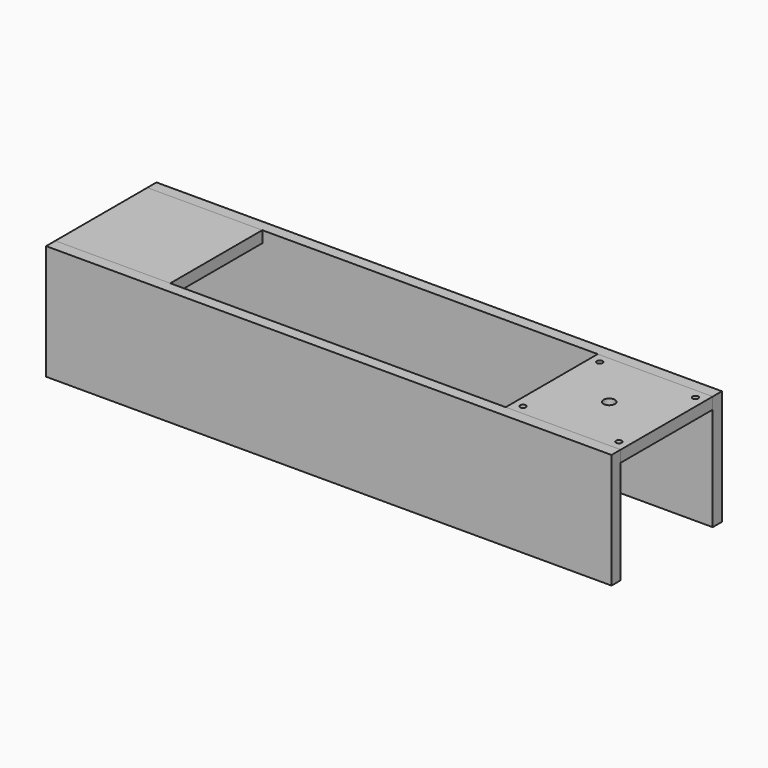
from build123d import *

# Parameters (mm, degrees)
F0_W     = 120
F0_H     = 12
F1_DEPTH = 120
F2_W     = 590
F2_H     = 120
F3_DEPTH = 12
F4_W     = 120
F4_H     = 12
F5_DEPTH = 120
F6_W     = 590
F6_H     = 120
F7_DEPTH = 12
F8_R     = 3
F8_R_2   = 6
F9_DEPTH = 120.001


with BuildPart() as f1:
    # F0 (on Front) → F1 (new body)
    with BuildSketch(Plane.XZ):
        Rectangle(F0_W, F0_H)
    extrude(amount=-F1_DEPTH)

    # F8 (on face) → F9 (cut, through all)
    with BuildSketch(Plane.XY.offset(6)):
        with Locations((50, 110)):
            Circle(F8_R)
        with Locations((-50, 110)):
            Circle(F8_R)
        with Locations((-50, 10)):
            Circle(F8_R)
        with Locations((0, 60)):
            Circle(F8_R_2)
        with Locations((50, 10)):
            Circle(F8_R)
    extrude(amount=-F9_DEPTH, mode=Mode.SUBTRACT)


with BuildPart() as f3:
    # F2 (on Front) → F3 (new body)
    with BuildSketch(Plane.XZ):
        with Locations((-235, -54)):
            Rectangle(F2_W, F2_H)
    extrude(amount=F3_DEPTH)


with BuildPart() as f5:
    # F4 (on Front) → F5 (new body)
    with BuildSketch(Plane.XZ):
        with Locations((-470, 0)):
            Rectangle(F4_W, F4_H)
    extrude(amount=-F5_DEPTH)


with BuildPart() as f7:
    # F6 (on face) → F7 (new body)
    with BuildSketch(Plane(origin=(0, 120, 0), x_dir=(-1, 0, 0), z_dir=(0, 1, 0))):
        with Locations((235, -54)):
            Rectangle(F6_W, F6_H)
    extrude(amount=F7_DEPTH)


solid = Compound([f1.part, f3.part, f5.part, f7.part])
